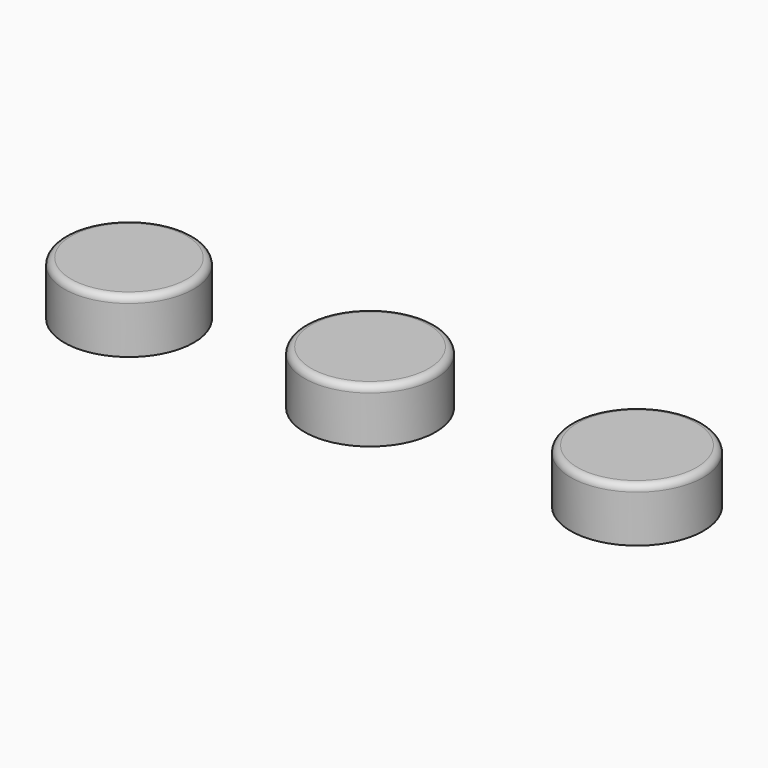
from build123d import *

# Parameters (mm, degrees)
F0_R     = 9.625
F0_R_2   = 7.625
F0_R_3   = 9.75
F0_R_4   = 7.75
F0_R_5   = 9.875
F0_R_6   = 7.875
F1_DEPTH = 6
F2_R     = 9.625
F2_R_2   = 9.75
F2_R_3   = 9.875
F3_DEPTH = 2
F4_R     = 1


with BuildPart() as f1:
    # F0 (on Top) → F1 (new body)
    with BuildSketch(Plane.XY):
        with Locations((-31.633902, 0)):
            Circle(F0_R)
        with Locations((-31.633902, 0)):
            Circle(F0_R_2, mode=Mode.SUBTRACT)
        with Locations((4.184379, 0)):
            Circle(F0_R_3)
        with Locations((4.184379, 0)):
            Circle(F0_R_4, mode=Mode.SUBTRACT)
        with Locations((43.852288, 0)):
            Circle(F0_R_5)
        with Locations((43.852288, 0)):
            Circle(F0_R_6, mode=Mode.SUBTRACT)
    extrude(amount=F1_DEPTH)

    # F2 (on face) → F3 (join)
    with BuildSketch(Plane.XY.offset(6)):
        with Locations((-31.633902, 0)):
            Circle(F2_R)
        with Locations((4.184379, 0)):
            Circle(F2_R_2)
        with Locations((43.852288, 0)):
            Circle(F2_R_3)
    extrude(amount=F3_DEPTH)

    # F4
    f4_edges = [f1.edges().sort_by_distance(p)[0] for p in [
        (-41.258902, 0, 8),
        (-5.565621, 0, 8),
        (33.977288, 0, 8),
    ]]
    fillet(f4_edges, radius=F4_R)


solid = f1.part
